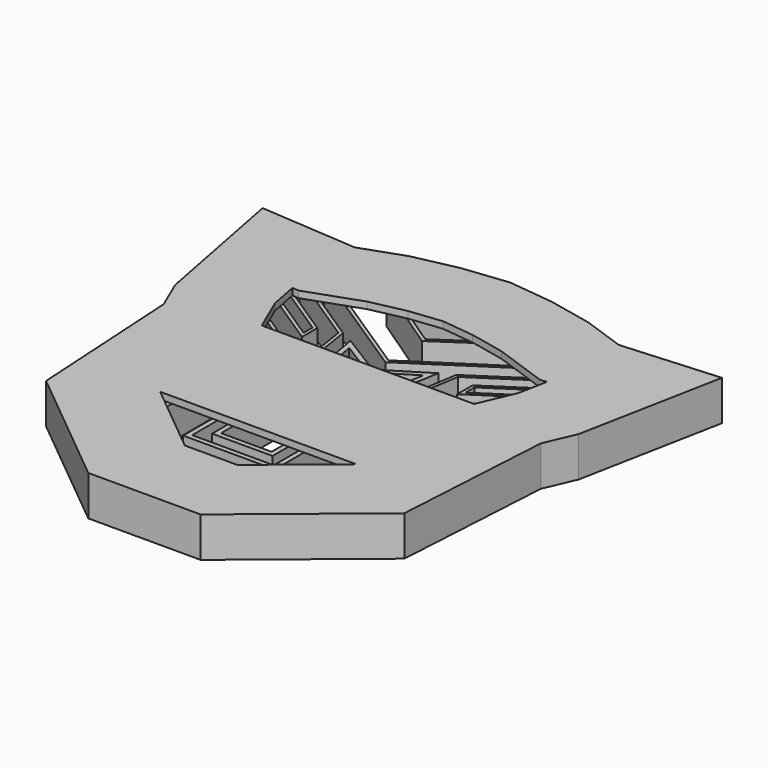
from build123d import *

# Parameters (mm, degrees)
F2_DEPTH = 10
F4_DEPTH = 2


with BuildPart() as f2:
    # F1 (on Top) → F2 (new body)
    with BuildSketch(Plane.XY):
        Polygon((-53.726882, -33.853062), (-16.842237, -64.137298), (0, -64.137298), (16.842237, -64.137298), (53.726882, -33.853062), (56.53949, 13.773772), (60.516797, 22.993891), (68.882488, 66.250642), (39.599542, 64.173839), (26.912102, 68.641245), (13.668757, 71.479104), (0, 73.008474), (-13.668757, 71.479104), (-26.912102, 68.641245), (-39.599542, 64.173839), (-68.882488, 66.250642), (-60.516797, 22.993891), (-56.53949, 13.773772), align=None)
        Polygon((-51.295669, -32.614514), (-54.069765, 14.360179), (-41.906898, 5.774081), (-41.722474, -1.602969), (-32.735657, -7.471909), (-32.735657, -47.853261), align=None, mode=Mode.SUBTRACT)
        Polygon((0, -61.637298), (-15.947408, -61.637298), (-8.813028, -45.579864), (0, -45.579864), (8.813028, -45.579864), (15.947408, -61.637298), align=None, mode=Mode.SUBTRACT)
        Polygon((0, -44.079864), (-9.787963, -44.079864), (-17.150071, -60.649849), (-19.540939, -58.68682), (-12.661938, -38.576165), (0, -38.576165), (12.661938, -38.576165), (19.540939, -58.68682), (17.150071, -60.649849), (9.787963, -44.079864), align=None, mode=Mode.SUBTRACT)
        Polygon((-20.778655, -57.67059), (-25.632764, -53.685111), (-25.917835, -6.672618), (-13.734177, -1.297476), (-13.734177, -32.465507), (0, -32.465507), (13.734177, -32.465507), (13.734177, -1.297476), (25.917835, -6.672618), (25.632764, -53.685111), (20.778655, -57.67059), (13.734177, -37.076165), (0, -37.076165), (-13.734177, -37.076165), align=None, mode=Mode.SUBTRACT)
        Polygon((41.722474, -1.602969), (41.906898, 5.774081), (54.069765, 14.360179), (51.295669, -32.614514), (32.735657, -47.853261), (32.735657, -7.471909), align=None, mode=Mode.SUBTRACT)
        Polygon((-58.113797, 23.73498), (-65.809308, 63.526406), (-45.463668, 62.213209), (-42.552678, 47.161257), (-17.905034, 30.943688), (-14.129326, 7.112986), (-35.485559, 10.610446), align=None, mode=Mode.SUBTRACT)
        Polygon((-55.208603, 17.000212), (-57.448714, 22.193196), (-35.828415, 9.653273), (-12.925056, 5.902444), (-16.986459, 31.536339), (-41.650903, 47.764962), (-44.405531, 62.008409), (-40.25525, 61.700665), (-38.6731, 51.520595), (0, 26.177858), (38.6731, 51.520595), (40.25525, 61.700665), (44.405531, 62.008409), (41.650903, 47.764962), (16.986459, 31.536339), (12.925056, 5.902444), (35.828415, 9.653273), (57.448714, 22.193196), (55.208603, 17.000212), (40.4262, 6.564912), (40.242633, -0.77786), (31.235657, -6.659966), (31.235657, -49.08484), (27.140297, -52.447347), (27.423776, -5.697512), (12.234177, 1.00378), (12.234177, -30.965507), (0, -30.965507), (-12.234177, -30.965507), (-12.234177, 1.00378), (-27.423776, -5.697512), (-27.140297, -52.447347), (-31.235657, -49.08484), (-31.235657, -6.659966), (-40.242633, -0.77786), (-40.4262, 6.564912), align=None, mode=Mode.SUBTRACT)
        Polygon((14.129326, 7.112986), (17.905034, 30.943688), (42.552678, 47.161257), (45.463668, 62.213209), (65.809308, 63.526406), (58.113797, 23.73498), (35.485559, 10.610446), align=None, mode=Mode.SUBTRACT)
        Polygon((-13.266855, 69.008472), (0, 70.492874), (13.266855, 69.008472), (26.232277, 66.230168), (39.235609, 61.651532), (37.753223, 52.113381), (0, 27.373444), (-37.753223, 52.113381), (-39.235609, 61.651532), (-26.232277, 66.230168), align=None, mode=Mode.SUBTRACT)
        Polygon((23.12796, 55.535195), (0, 55.535195), (-23.12796, 55.535195), (0, 39.928198), align=None)
        Polygon((0, 41.134585), (-19.858322, 54.535195), (0, 54.535195), (19.858322, 54.535195), align=None, mode=Mode.SUBTRACT)
        Polygon((-23.277429, 29.771808), (-55.048579, 50.676476), (-55.048579, 44.922112), (-23.277429, 24.017444), align=None)
        Polygon((-24.277429, 25.872472), (-54.048579, 45.461187), (-54.048579, 48.821448), (-24.277429, 29.232732), align=None, mode=Mode.SUBTRACT)
        Polygon((-23.277429, 18.741913), (-52.128611, 37.725311), (-52.128611, 32.036156), (-23.277429, 13.052758), align=None)
        Polygon((-51.128611, 32.575232), (-51.128611, 35.870283), (-24.277429, 18.202837), (-24.277429, 14.907787), align=None, mode=Mode.SUBTRACT)
        Polygon((23.277429, 24.017444), (55.048579, 44.922112), (55.048579, 50.676476), (23.277429, 29.771808), align=None)
        Polygon((54.048579, 48.821448), (54.048579, 45.461187), (24.277429, 25.872472), (24.277429, 29.232732), align=None, mode=Mode.SUBTRACT)
        Polygon((52.128611, 32.036156), (52.128611, 37.725311), (23.277429, 18.741913), (23.277429, 13.052758), align=None)
        Polygon((24.277429, 18.202837), (51.128611, 35.870283), (51.128611, 32.575232), (24.277429, 14.907787), align=None, mode=Mode.SUBTRACT)
        Polygon((-9.070422, 6.432364), (-9.070422, -27.451917), (0, -27.451917), (9.070422, -27.451917), (9.070422, 6.432364), (13.198829, 29.609826), (0, 21.401258), (-13.198829, 29.609826), align=None)
        Polygon((-11.131577, 26.557744), (0, 19.634834), (11.131577, 26.557744), (7.570422, 6.564912), (7.570422, -25.951917), (0, -25.951917), (-7.570422, -25.951917), (-7.570422, 6.564912), align=None, mode=Mode.SUBTRACT)
    extrude(amount=F2_DEPTH)

    # F3 (on face) → F4 (join)
    with BuildSketch(Plane.XY.offset(10)):
        Polygon((-26.912102, 68.641245), (-39.599542, 64.173839), (-68.882488, 66.250642), (-60.516797, 22.993891), (-56.53949, 13.773772), (-53.726882, -33.853062), (-16.842237, -64.137298), (16.842237, -64.137298), (53.726882, -33.853062), (56.53949, 13.773772), (60.516797, 22.993891), (68.882488, 66.250642), (39.599542, 64.173839), (26.912102, 68.641245), (13.668757, 71.479104), (0, 73.008474), (-13.668757, 71.479104), align=None)
        Polygon((-7.893944, -39.137298), (-29.414752, -21.467581), (29.414752, -21.467581), (7.893944, -39.137298), align=None, mode=Mode.SUBTRACT)
        Polygon((-36.191489, 38.869338), (-20.113852, 44.530475), (-9.649743, 46.772784), (0, 47.852474), (9.649743, 46.772784), (20.113852, 44.530475), (36.191489, 38.869338), (38.150686, 39.008288), (36.486801, 30.404782), (31.842237, 19.637842), (-31.842237, 19.637842), (-36.486801, 30.404782), (-38.150686, 39.008288), align=None, mode=Mode.SUBTRACT)
    extrude(amount=F4_DEPTH)


solid = f2.part
